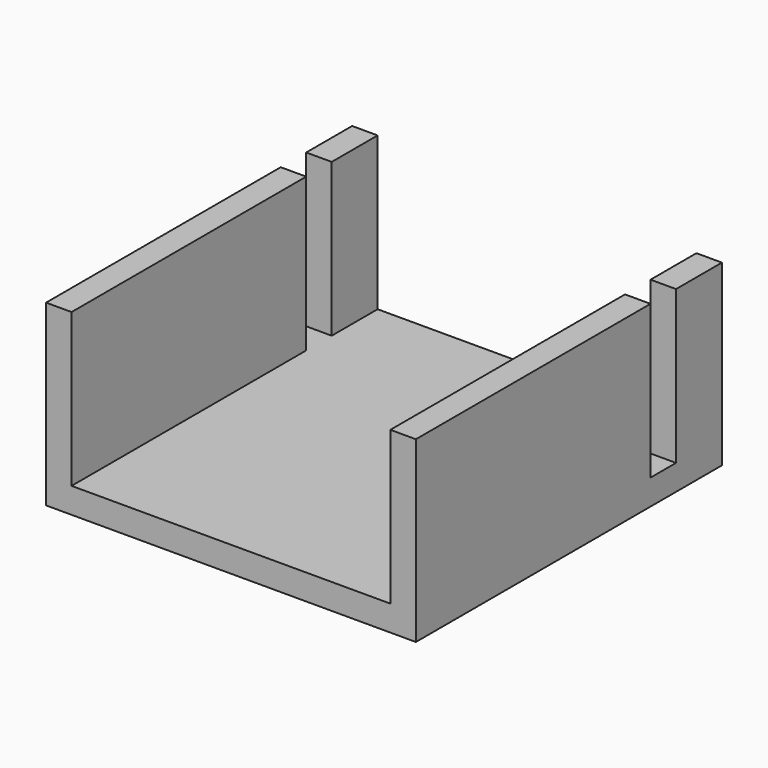
from build123d import *

# Parameters (mm, degrees)
F0_W     = 2
F0_H     = 2.5
F1_DEPTH = 2
F0_H_2   = 23
F0_H_3   = 4.5
F2_DEPTH = 14


with BuildPart() as f1:
    # F0 (on Top) → F1 (new body)
    with BuildSketch(Plane.XY):
        Polygon((12.5, 0), (0, 0), (0, -4.5), (0, -7), (0, -30), (12.5, -30), align=None)
        Polygon((25, 0), (12.5, 0), (12.5, -30), (25, -30), (25, -7), (25, -4.5), align=None)
        with Locations((-1, -5.75)):
            Rectangle(F0_W, F0_H)
        with Locations((26, -5.75)):
            Rectangle(F0_W, F0_H)
    extrude(amount=F1_DEPTH)

    # F0 (on Top) → F2 (join)
    with BuildSketch(Plane.XY):
        with Locations((-1, -18.5)):
            Rectangle(F0_W, F0_H_2)
        with Locations((-1, -2.25)):
            Rectangle(F0_W, F0_H_3)
        with Locations((26, -2.25)):
            Rectangle(F0_W, F0_H_3)
        with Locations((26, -18.5)):
            Rectangle(F0_W, F0_H_2)
    extrude(amount=F2_DEPTH)


solid = f1.part
